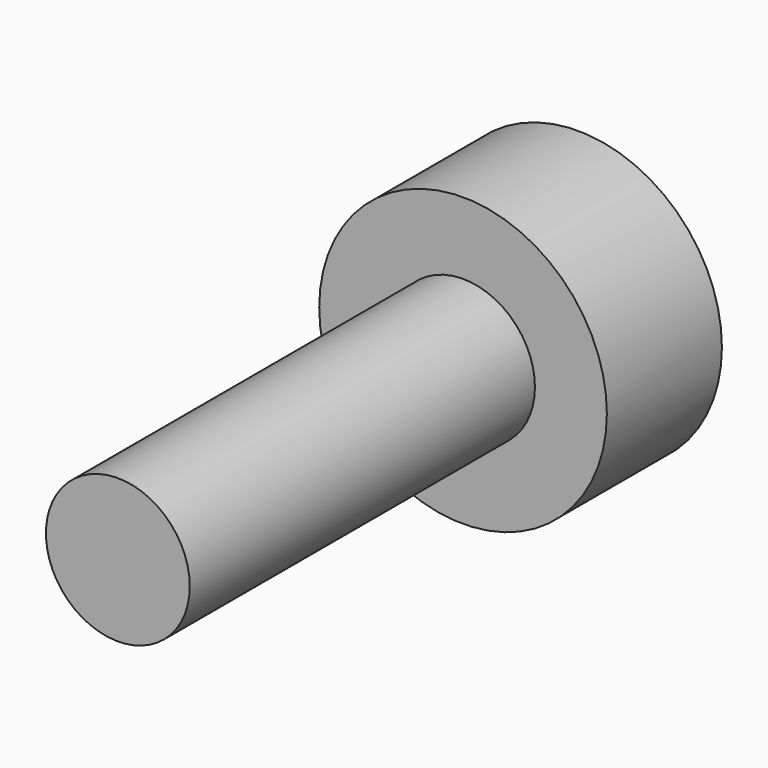
from build123d import *

# Parameters (mm, degrees)
F0_R     = 12.7
F1_DEPTH = 76.2
F0_R_2   = 25.4
F2_DEPTH = 25.4


with BuildPart() as f1:
    # F0 (on Front) → F1 (new body)
    with BuildSketch(Plane.XZ):
        Circle(F0_R)
    extrude(amount=F1_DEPTH)

    # F0 (on Front) → F2 (join)
    with BuildSketch(Plane.XZ):
        Circle(F0_R_2)
        Circle(F0_R, mode=Mode.SUBTRACT)
    extrude(amount=-F2_DEPTH)


solid = f1.part
